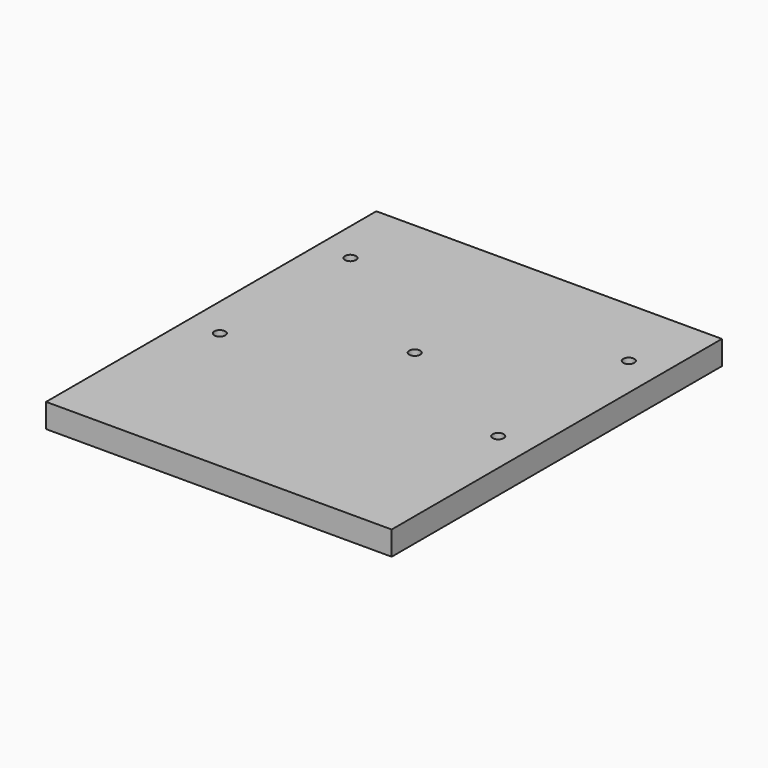
from build123d import *

# Parameters (mm, degrees)
F0_W     = 72
F0_H     = 86
F0_R     = 1.15
F1_DEPTH = 5


with BuildPart() as f1:
    # F0 (on Top) → F1 (new body)
    with BuildSketch(Plane.XY):
        Rectangle(F0_W, F0_H)
        with Locations((-29, -6.5)):
            Circle(F0_R, mode=Mode.SUBTRACT)
        with Locations((29, -6.5)):
            Circle(F0_R, mode=Mode.SUBTRACT)
        with Locations((-29, 27.5)):
            Circle(F0_R, mode=Mode.SUBTRACT)
        with Locations((0, 8)):
            Circle(F0_R, mode=Mode.SUBTRACT)
        with Locations((29, 27.5)):
            Circle(F0_R, mode=Mode.SUBTRACT)
    extrude(amount=F1_DEPTH)


solid = f1.part
